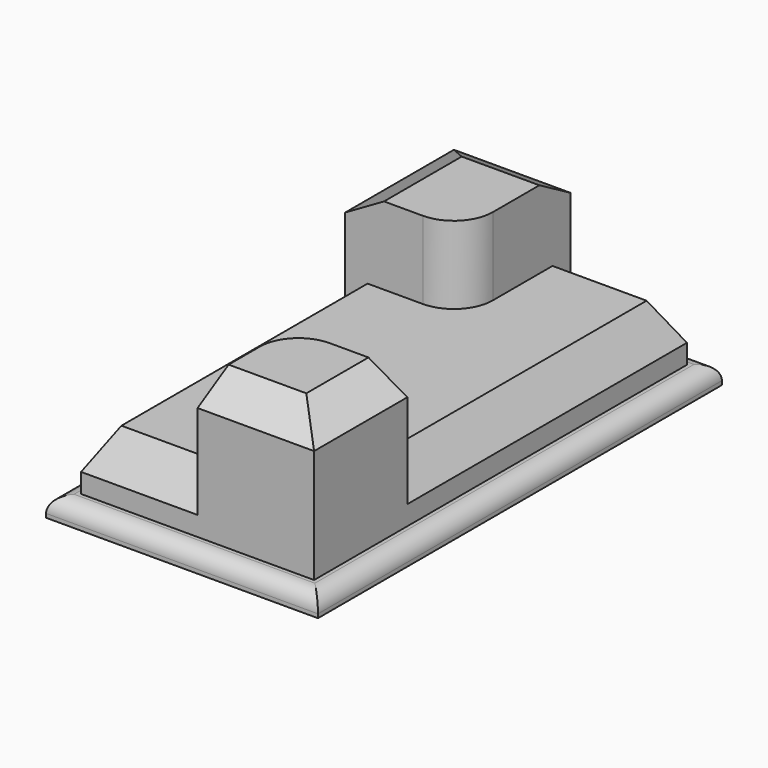
from build123d import *

# Parameters (mm, degrees)
F0_W     = 88.9
F0_H     = 165.1
F1_DEPTH = 6.35
F2_DEPTH = 25.4
F3_DEPTH = 50.8
F4_R     = 5.08
F5_SIZE2 = 7.3323484187
F5_SIZE  = 12.7
F6_SIZE2 = 7.3323484187
F6_SIZE  = 12.7
F7_SIZE2 = 7.3323484187
F7_SIZE  = 12.7


with BuildPart() as f1:
    # F0 (on Top) → F1 (new body)
    with BuildSketch(Plane.XY):
        with Locations((5.6305658072, 24.3604830414)):
            Rectangle(F0_W, F0_H)
        Polygon((-32.4694341928, 56.1104830414), (-32.4694341928, 100.5604830414), (5.6305658072, 100.5604830414), (43.7305658072, 100.5604830414), (43.7305658072, -13.7395169586), (43.7305658072, -51.8395169586), (5.6305658072, -51.8395169586), (-32.4694341928, -51.8395169586), align=None, mode=Mode.SUBTRACT)
    extrude(amount=F1_DEPTH)

    # F0 (on Top) → F2 (join)
    with BuildSketch(Plane.XY):
        with BuildLine():
            Line((43.7305658072, 100.5604830414), (5.6305658072, 100.5604830414))
            Line((5.6305658072, 100.5604830414), (5.6305658072, 68.8104830414))
            ThreePointArc((5.6305658072, 68.8104830414), (1.9108219283, 59.8302269203), (-7.0694341928, 56.1104830414))
            Line((-7.0694341928, 56.1104830414), (-32.4694341928, 56.1104830414))
            Line((-32.4694341928, 56.1104830414), (-32.4694341928, -51.8395169586))
            Line((-32.4694341928, -51.8395169586), (5.6305658072, -51.8395169586))
            Line((5.6305658072, -51.8395169586), (5.6305658072, -26.4395169586))
            ThreePointArc((5.6305658072, -26.4395169586), (9.3503096862, -17.4592608375), (18.3305658072, -13.7395169586))
            Line((18.3305658072, -13.7395169586), (43.7305658072, -13.7395169586))
            Line((43.7305658072, -13.7395169586), (43.7305658072, 100.5604830414))
        make_face()
    extrude(amount=F2_DEPTH)

    # F0 (on Top) → F3 (join)
    with BuildSketch(Plane.XY):
        with BuildLine():
            Line((43.7305658072, -51.8395169586), (43.7305658072, -13.7395169586))
            Line((43.7305658072, -13.7395169586), (18.3305658072, -13.7395169586))
            ThreePointArc((18.3305658072, -13.7395169586), (9.3503096862, -17.4592608375), (5.6305658072, -26.4395169586))
            Line((5.6305658072, -26.4395169586), (5.6305658072, -51.8395169586))
            Line((5.6305658072, -51.8395169586), (43.7305658072, -51.8395169586))
        make_face()
        with BuildLine():
            Line((5.6305658072, 100.5604830414), (-32.4694341928, 100.5604830414))
            Line((-32.4694341928, 100.5604830414), (-32.4694341928, 56.1104830414))
            Line((-32.4694341928, 56.1104830414), (-7.0694341928, 56.1104830414))
            ThreePointArc((-7.0694341928, 56.1104830414), (1.9108219283, 59.8302269203), (5.6305658072, 68.8104830414))
            Line((5.6305658072, 68.8104830414), (5.6305658072, 100.5604830414))
        make_face()
    extrude(amount=F3_DEPTH)

    # F4
    f4_edges = [f1.edges().sort_by_distance(p)[0] for p in [
        (-38.819434, 24.360483, 6.35),
        (5.630566, -58.189517, 6.35),
        (50.080566, 24.360483, 6.35),
        (5.630566, 106.910483, 6.35),
    ]]
    fillet(f4_edges, radius=F4_R)

    # F5
    f5_edges = [f1.edges().sort_by_distance(p)[0] for p in [
        (43.730566, 43.410483, 25.4),
        (24.680566, 100.560483, 25.4),
        (-32.469434, 2.135483, 25.4),
        (-13.419434, -51.839517, 25.4),
    ]]
    chamfer(f5_edges, length=F5_SIZE, length2=F5_SIZE2)

    # F6
    f6_edges = [f1.edges().sort_by_distance(p)[0] for p in [
        (24.680566, -51.839517, 50.8),
        (43.730566, -32.789517, 50.8),
    ]]
    f6_side = f1.faces().sort_by_distance((25.076608, -33.185559, 50.8))[0]
    chamfer(f6_edges, length=F6_SIZE, length2=F6_SIZE2, reference=f6_side)

    # F7
    f7_edges = [f1.edges().sort_by_distance(p)[0] for p in [
        (-32.469434, 78.335483, 50.8),
        (-13.419434, 100.560483, 50.8),
    ]]
    f7_side = f1.faces().sort_by_distance((-13.757718, 78.740013, 50.8))[0]
    chamfer(f7_edges, length=F7_SIZE, length2=F7_SIZE2, reference=f7_side)


solid = f1.part
